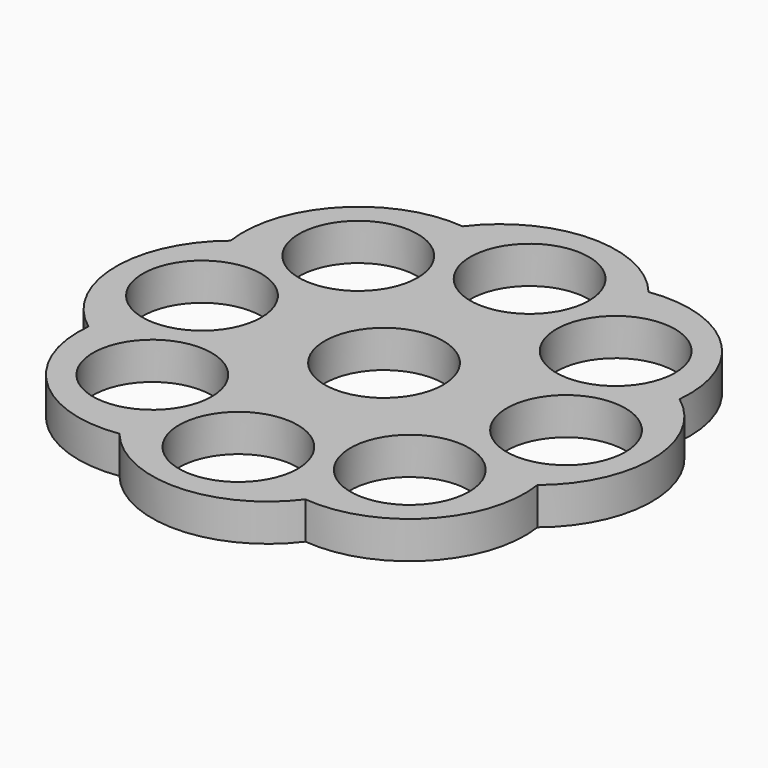
from build123d import *

# Parameters (mm, degrees)
F0_R     = 11.15
F1_DEPTH = 7


with BuildPart() as f1:
    # F0 (on Top) → F1 (new body)
    with BuildSketch(Plane.XY):
        with BuildLine():
            Line((-41.092701, -18.101931), (-22.594379, -9.358898))
            Line((-22.594379, -9.358898), (-22.594379, 9.358898))
            Line((-22.594379, 9.358898), (-41.856926, 16.25693))
            ThreePointArc((-41.856926, 16.25693), (-49.870064, -1.109231), (-41.092701, -18.101931))
        make_face()
        with Locations((-34.221899, 0)):
            Circle(F0_R, mode=Mode.SUBTRACT)
        with BuildLine():
            Line((-9.358898, -22.594379), (-22.594379, -9.358898))
            Line((-22.594379, -9.358898), (-41.092701, -18.101931))
            ThreePointArc((-41.092701, -18.101931), (-34.479115, -36.047805), (-16.25693, -41.856926))
            Line((-16.25693, -41.856926), (-9.358898, -22.594379))
        make_face()
        with Locations((-24.198537, -24.198537)):
            Circle(F0_R, mode=Mode.SUBTRACT)
        with BuildLine():
            Line((-41.856926, 16.25693), (-22.594379, 9.358898))
            Line((-22.594379, 9.358898), (-9.358898, 22.594379))
            Line((-9.358898, 22.594379), (-18.101931, 41.092701))
            ThreePointArc((-18.101931, 41.092701), (-36.047805, 34.479115), (-41.856926, 16.25693))
        make_face()
        with Locations((-24.198537, 24.198537)):
            Circle(F0_R, mode=Mode.SUBTRACT)
        with BuildLine():
            Line((9.358898, -22.594379), (-9.358898, -22.594379))
            Line((-9.358898, -22.594379), (-16.25693, -41.856926))
            ThreePointArc((-16.25693, -41.856926), (1.109231, -49.870064), (18.101931, -41.092701))
            Line((18.101931, -41.092701), (9.358898, -22.594379))
        make_face()
        with Locations((0, -34.221899)):
            Circle(F0_R, mode=Mode.SUBTRACT)
        with BuildLine():
            Line((-18.101931, 41.092701), (-9.358898, 22.594379))
            Line((-9.358898, 22.594379), (9.358898, 22.594379))
            Line((9.358898, 22.594379), (16.25693, 41.856926))
            ThreePointArc((16.25693, 41.856926), (-1.109231, 49.870064), (-18.101931, 41.092701))
        make_face()
        with Locations((0, 34.221899)):
            Circle(F0_R, mode=Mode.SUBTRACT)
        with BuildLine():
            Line((22.594379, -9.358898), (9.358898, -22.594379))
            Line((9.358898, -22.594379), (18.101931, -41.092701))
            ThreePointArc((18.101931, -41.092701), (36.047805, -34.479115), (41.856926, -16.25693))
            Line((41.856926, -16.25693), (22.594379, -9.358898))
        make_face()
        with Locations((24.198537, -24.198537)):
            Circle(F0_R, mode=Mode.SUBTRACT)
        with BuildLine():
            Line((16.25693, 41.856926), (9.358898, 22.594379))
            Line((9.358898, 22.594379), (22.594379, 9.358898))
            Line((22.594379, 9.358898), (41.092701, 18.101931))
            ThreePointArc((41.092701, 18.101931), (34.479115, 36.047805), (16.25693, 41.856926))
        make_face()
        with Locations((24.198537, 24.198537)):
            Circle(F0_R, mode=Mode.SUBTRACT)
        with BuildLine():
            Line((22.594379, 9.358898), (22.594379, -9.358898))
            Line((22.594379, -9.358898), (41.856926, -16.25693))
            ThreePointArc((41.856926, -16.25693), (49.870064, 1.109231), (41.092701, 18.101931))
            Line((41.092701, 18.101931), (22.594379, 9.358898))
        make_face()
        with Locations((34.221899, 0)):
            Circle(F0_R, mode=Mode.SUBTRACT)
        Polygon((-22.594379, 9.358898), (-22.594379, -9.358898), (-9.358898, -22.594379), (9.358898, -22.594379), (22.594379, -9.358898), (22.594379, 9.358898), (9.358898, 22.594379), (-9.358898, 22.594379), align=None)
        Circle(F0_R, mode=Mode.SUBTRACT)
    extrude(amount=F1_DEPTH)


solid = f1.part
